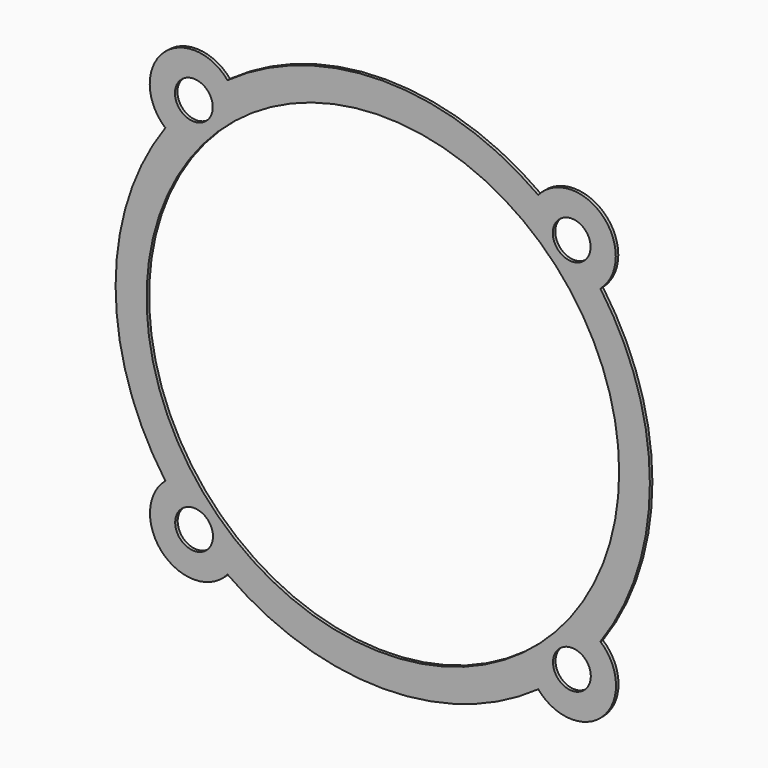
from build123d import *

# Parameters (mm, degrees)
F0_R     = 3
F0_R_2   = 37.5
F1_DEPTH = 0.5


with BuildPart() as f1:
    # F0 (on Front) → F1 (new body)
    with BuildSketch(Plane.XZ):
        with BuildLine():
            ThreePointArc((24.65233, 34.529271), (-0.003968, 42.471267), (-24.658782, 34.524663))
            ThreePointArc((-24.658782, 34.524663), (-34.949737, 34.94989), (-34.524555, 24.658933))
            ThreePointArc((-34.524555, 24.658933), (-42.417707, 0), (-34.524555, -24.658933))
            ThreePointArc((-34.524555, -24.658933), (-34.911112, -34.91779), (-24.65233, -34.529271))
            ThreePointArc((-24.65233, -34.529271), (0.003966, -42.451585), (24.658782, -34.524663))
            ThreePointArc((24.658782, -34.524663), (34.949737, -34.94989), (34.524555, -24.658933))
            ThreePointArc((34.524555, -24.658933), (42.374192, 0), (34.524555, 24.658933))
            ThreePointArc((34.524555, 24.658933), (34.911112, 34.91779), (24.65233, 34.529271))
        make_face()
        with Locations((-29.961838, -29.967569)):
            Circle(F0_R, mode=Mode.SUBTRACT)
        with Locations((30, -30.000132)):
            Circle(F0_R, mode=Mode.SUBTRACT)
        Circle(F0_R_2, mode=Mode.SUBTRACT)
        with Locations((-30, 30.000132)):
            Circle(F0_R, mode=Mode.SUBTRACT)
        with Locations((29.961838, 29.967569)):
            Circle(F0_R, mode=Mode.SUBTRACT)
    extrude(amount=F1_DEPTH)


solid = f1.part
